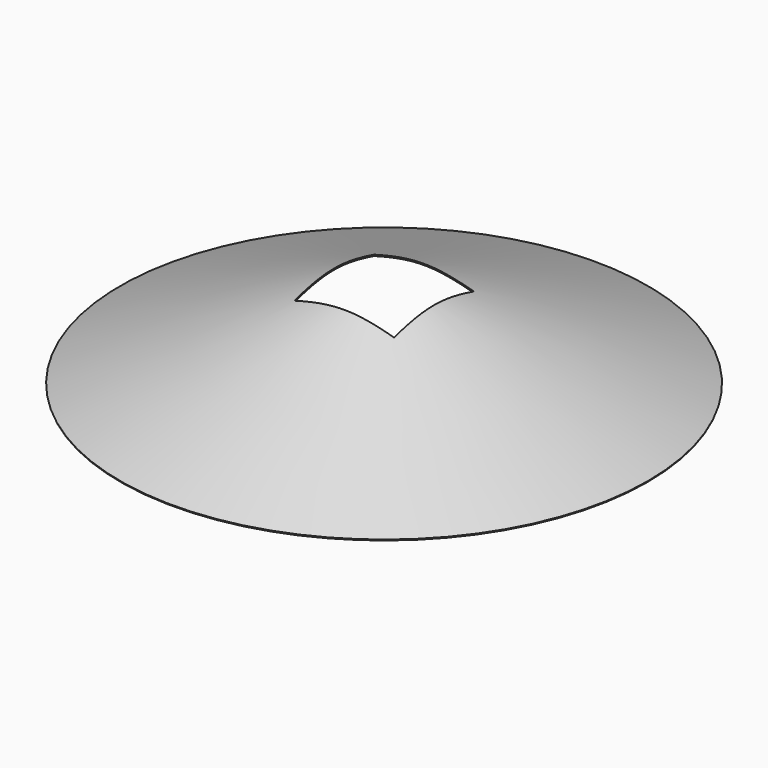
from build123d import *

# Parameters (mm, degrees)
F2_W     = 170
F2_H     = 170
F3_DEPTH = 78.0983546972


with BuildPart() as f1:
    # F0 (on Front) → F1 (revolve)
    with BuildSketch(Plane.XZ):
        Polygon((450, -101.8674174799), (0, 77.0983546972), (0, 74.9459916657), (449.2609021617, -103.7258400329), align=None)
    revolve(axis=Axis((0, 0, 57.0620037615), (0, 0, 1)))

    # F2 (on Top) → F3 (cut, up to face)
    with BuildSketch(Plane.XY):
        Rectangle(F2_W, F2_H)
    extrude(amount=F3_DEPTH, mode=Mode.SUBTRACT)


solid = f1.part
